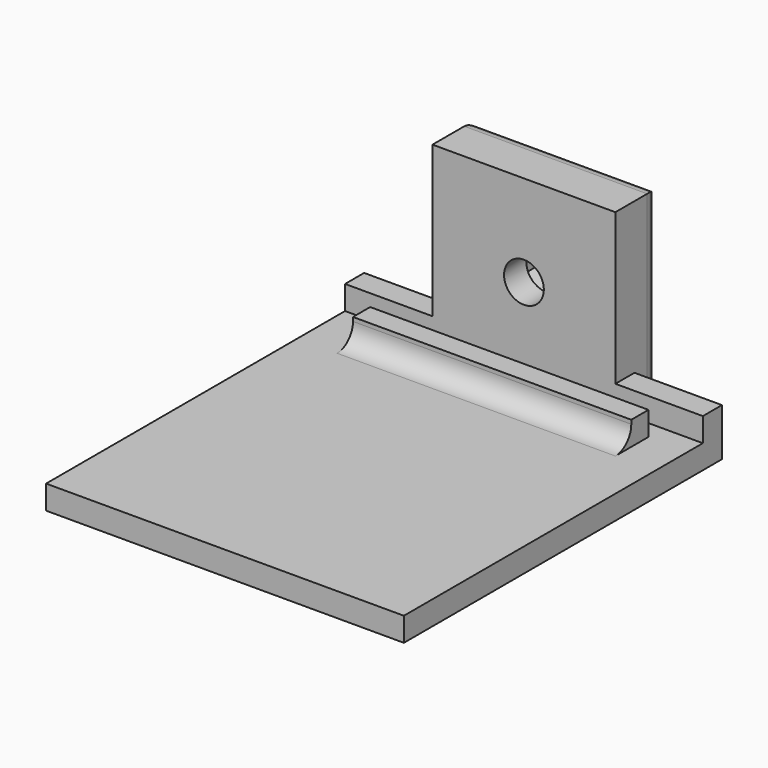
from build123d import *

# Parameters (mm, degrees)
SKETCH_W        = 45
SKETCH_H        = 50
PAD_DEPTH       = 3
SKETCH001_W     = 23
SKETCH001_H     = 25
PAD001_DEPTH    = 7
SKETCH002_W     = 45
SKETCH002_H     = 8
PAD002_DEPTH    = 3
POCKET_DEPTH    = 3
POCKET001_DEPTH = 3.5
SKETCH005_R     = 2.5
POCKET002_DEPTH = 50.501
FILLET_R        = 2.5
FILLET001_R     = 2


with BuildPart() as part:
    # Sketch → Pad (new body)
    with BuildSketch(Plane.XY):
        Rectangle(SKETCH_W, SKETCH_H)
    extrude(amount=PAD_DEPTH)

    # Sketch001 (on DatumPlane) → Pad001 (join)
    with BuildSketch(Plane(origin=(0, 22, 0), x_dir=(-1, 0, 0), z_dir=(0, 1, 0))):
        with Locations((0, 12.5)):
            Rectangle(SKETCH001_W, SKETCH001_H)
    extrude(amount=PAD001_DEPTH)

    # Sketch002 (on Face5 of Pad001) → Pad002 (join)
    with BuildSketch(Plane.XY.offset(3)):
        with Locations((0, 21)):
            Rectangle(SKETCH002_W, SKETCH002_H)
    extrude(amount=PAD002_DEPTH)

    # Sketch003 (on Face14 of Pad002) → Pocket (cut)
    with BuildSketch(Plane.XY.offset(6)):
        Polygon((-22.5, 22), (22.5, 22), (22.5, 19.7), (22.5, 17), (17.5, 17), (17.5, 19.7), (-17.5, 19.7), (-17.5, 17), (-22.5, 17), (-22.5, 19.7), align=None)
    extrude(amount=-POCKET_DEPTH, mode=Mode.SUBTRACT)

    # Sketch004 (on Face27 of Pocket) → Pocket001 (cut)
    with BuildSketch(Plane(origin=(0, 29, 0), x_dir=(-1, 0, 0), z_dir=(0, 1, 0))):
        Polygon((3.65, 11.392672), (3.65, 15.607328), (0, 17.714657), (-3.65, 15.607328), (-3.65, 11.392672), (0, 9.285343), align=None)
    extrude(amount=-POCKET001_DEPTH, mode=Mode.SUBTRACT)

    # Sketch005 (on Face34 of Pocket001) → Pocket002 (cut, through all)
    with BuildSketch(Plane(origin=(0, 25.5, 0), x_dir=(-1, 0, 0), z_dir=(0, 1, 0))):
        with Locations((0, 13.5)):
            Circle(SKETCH005_R)
    extrude(amount=-POCKET002_DEPTH, mode=Mode.SUBTRACT)

    # Fillet
    fillet_edges = [part.edges().sort_by_distance(p)[0] for p in [
        (0, 17, 3),
    ]]
    fillet(fillet_edges, radius=FILLET_R)

    # Fillet001
    fillet001_edges = [part.edges().sort_by_distance(p)[0] for p in [
        (0, 29, 25),
        (11.5, 29, 12.5),
        (-11.5, 29, 12.5),
    ]]
    fillet(fillet001_edges, radius=FILLET001_R)


solid = part.part
